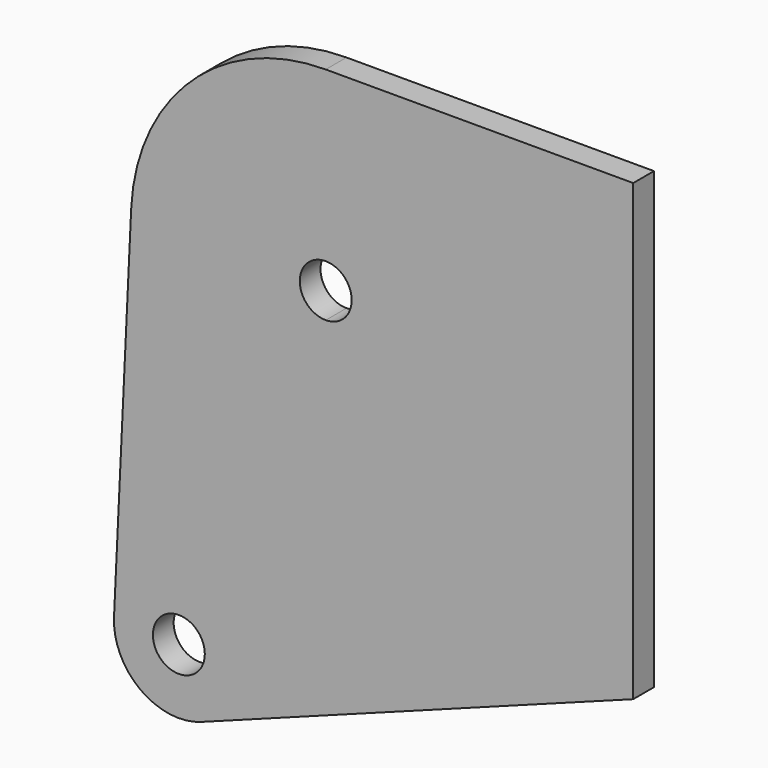
from build123d import *

# Parameters (mm, degrees)
F0_R     = 4
F1_DEPTH = 4


with BuildPart() as f1:
    # F0 (on Front) → F1 (new body)
    with BuildSketch(Plane.XZ):
        with BuildLine():
            Line((-29.966833, 1.410292), (-32.615494, -54.870253))
            ThreePointArc((-32.615494, -54.870253), (-28.526412, -63.414483), (-19.14371, -64.714241))
            Line((-19.14371, -64.714241), (47.37345, -40))
            Line((47.37345, -40), (47.37345, 30))
            Line((47.37345, 30), (0, 30))
            ThreePointArc((0, 30), (-20.708588, 21.706091), (-29.966833, 1.410292))
        make_face()
        with Locations((-22.62655, -55.34035)):
            Circle(F0_R, mode=Mode.SUBTRACT)
        with BuildLine():
            ThreePointArc((0, 4), (2.828427, 2.828427), (4, 0))
            ThreePointArc((4, 0), (2.828427, -2.828427), (0, -4))
            ThreePointArc((0, -4), (-4, 0), (0, 4))
        make_face(mode=Mode.SUBTRACT)
    extrude(amount=F1_DEPTH)


solid = f1.part
